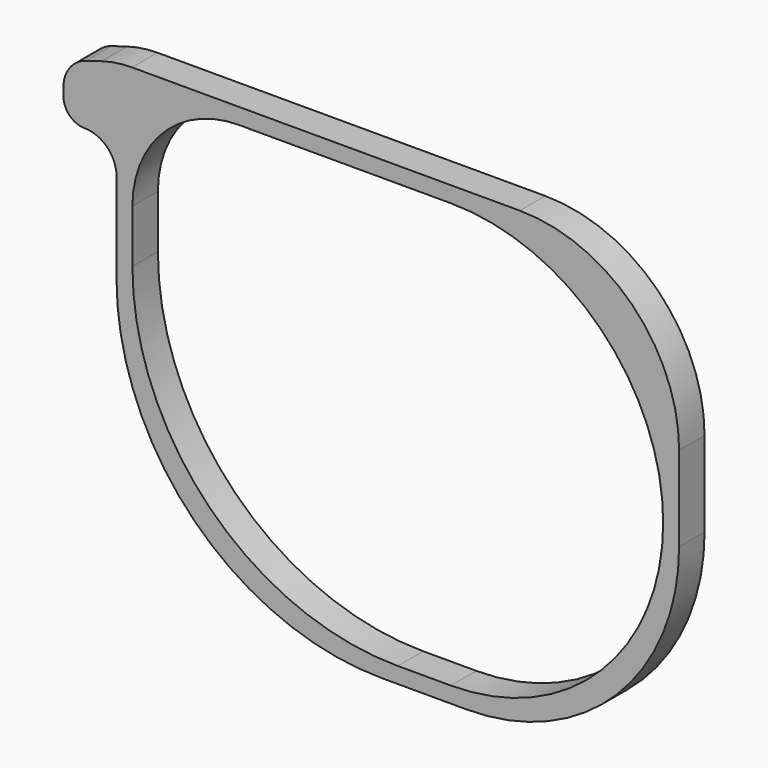
from build123d import *

# Parameters (mm, degrees)
F1_DEPTH = 3


with BuildPart() as f1:
    # F0 (on Front) → F1 (new body)
    with BuildSketch(Plane.XZ):
        with BuildLine():
            ThreePointArc((26.5, 6.5), (22.106602, 17.106602), (11.5, 21.5))
            Line((11.5, 21.5), (-25.032312, 21.5))
            ThreePointArc((-25.032312, 21.5), (-26.484443, 21.394004), (-27.90579, 21.078263))
            Line((-27.90579, 21.078263), (-29.362044, 20.641387))
            ThreePointArc((-29.362044, 20.641387), (-30.906879, 19.5587), (-31.5, 17.767908))
            Line((-31.5, 17.767908), (-31.5, 17))
            ThreePointArc((-31.5, 17), (-30.914214, 15.585786), (-29.5, 15))
            ThreePointArc((-29.5, 15), (-27.37868, 14.12132), (-26.5, 12))
            Line((-26.5, 12), (-26.5, 3.5))
            ThreePointArc((-26.5, 3.5), (-19.17767, -14.17767), (-1.5, -21.5))
            Line((-1.5, -21.5), (6.5, -21.5))
            ThreePointArc((6.5, -21.5), (20.642136, -15.642136), (26.5, -1.5))
            Line((26.5, -1.5), (26.5, 6.5))
        make_face()
        with BuildLine():
            Line((-15, 20), (5, 20))
            ThreePointArc((5, 20), (19.142136, 14.142136), (25, 0))
            ThreePointArc((25, 0), (19.142136, -14.142136), (5, -20))
            Line((5, -20), (0, -20))
            ThreePointArc((0, -20), (-17.67767, -12.67767), (-25, 5))
            Line((-25, 5), (-25, 10))
            ThreePointArc((-25, 10), (-22.071068, 17.071068), (-15, 20))
        make_face(mode=Mode.SUBTRACT)
    extrude(amount=F1_DEPTH)


solid = f1.part
